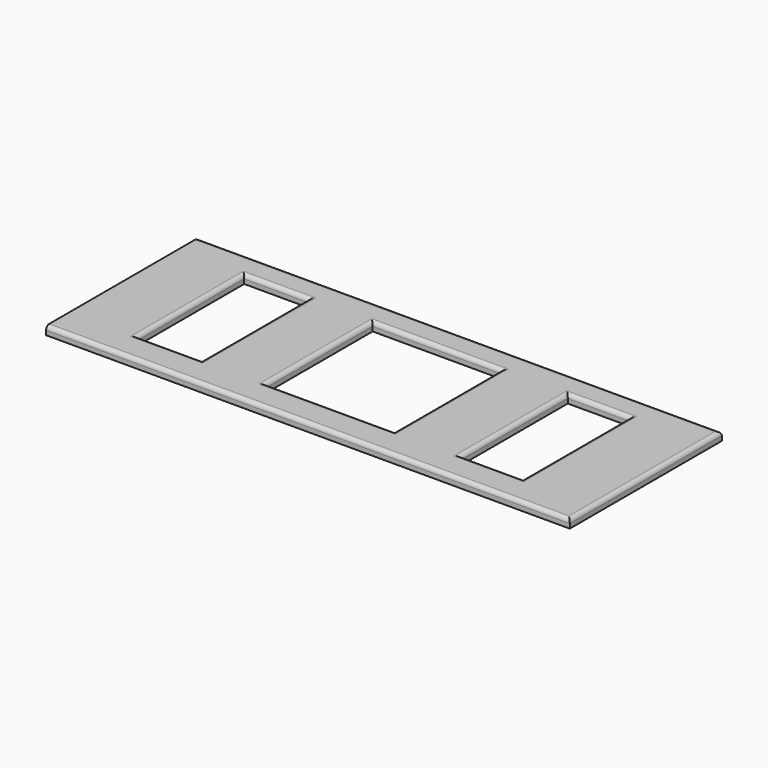
from build123d import *

# Parameters (mm, degrees)
F0_W     = 16.51
F0_H     = 34.29
F0_W_2   = 33.02
F0_W_3   = 15.875
F1_DEPTH = 2.159
F2_R     = 1.016


with BuildPart() as f1:
    # F0 (on Top) → F1 (new body)
    with BuildSketch(Plane.XY):
        Polygon((-67.31, -10.4775), (-67.31, -24.4475), (-33.655, -24.4475), (0, -24.4475), (33.02, -24.4475), (67.31, -24.4475), (67.31, 0), (67.31, 24.4475), (33.02, 24.4475), (0, 24.4475), (-33.655, 24.4475), (-67.31, 24.4475), (-67.31, 10.4775), align=None)
        with Locations((-41.91, 0.635)):
            Rectangle(F0_W, F0_H, mode=Mode.SUBTRACT)
        with Locations((-0.635, 0.635)):
            Rectangle(F0_W_2, F0_H, mode=Mode.SUBTRACT)
        with Locations((40.9575, 0.635)):
            Rectangle(F0_W_3, F0_H, mode=Mode.SUBTRACT)
    extrude(amount=F1_DEPTH)

    # F2
    f2_edges = [f1.edges().sort_by_distance(p)[0] for p in [
        (15.875, 0.635, 2.159),
        (-33.655, 0.635, 2.159),
        (-17.145, 0.635, 2.159),
        (-50.165, 0.635, 2.159),
        (-41.91, 17.78, 2.159),
        (-0.635, 17.78, 2.159),
        (-0.635, -16.51, 2.159),
        (-41.91, -16.51, 2.159),
        (40.9575, -16.51, 2.159),
        (33.02, 0.635, 2.159),
        (40.9575, 17.78, 2.159),
        (48.895, 0.635, 2.159),
        (0, -24.4475, 2.159),
        (0, 24.4475, 2.159),
        (67.31, 0, 2.159),
    ]]
    fillet(f2_edges, radius=F2_R)


solid = f1.part
